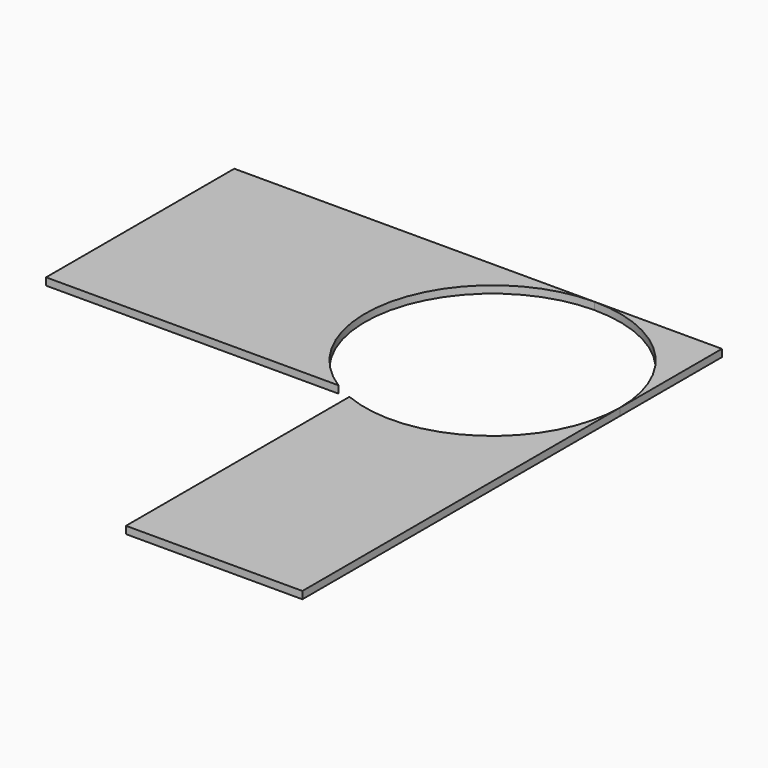
from build123d import *

# Parameters (mm, degrees)
F1_DEPTH = 19.05
F3_DEPTH = 25.4


with BuildPart() as f1:
    # F0 (on Top) → F1 (new body)
    with BuildSketch(Plane.XY):
        Polygon((0, -1358.9), (0, 0), (-1263.65, 0), (-1263.65, -609.6), (-1225.55, -609.6), (-1225.55, -38.1), (-38.1, -38.1), (-38.1, -1320.8), (-457.2, -1320.8), (-457.2, -1358.9), align=None)
        Polygon((-1225.55, -38.1), (-1225.55, -609.6), (-457.2, -609.6), (-457.2, -1320.8), (-38.1, -1320.8), (-38.1, -38.1), align=None)
    extrude(amount=F1_DEPTH)

    # F2 (on face) → F3 (cut)
    with BuildSketch(Plane.XY.offset(19.05)):
        with BuildLine():
            ThreePointArc((-457.2, -635), (-147.037995, -604.943007), (0, -330.2))
            ThreePointArc((0, -330.2), (-96.713341, -96.713341), (-330.2, 0))
            ThreePointArc((-330.2, 0), (-647.445898, -238.618998), (-506.176362, -609.6))
            Line((-506.176362, -609.6), (-457.2, -609.6))
            Line((-457.2, -609.6), (-457.2, -635))
        make_face()
    extrude(amount=-F3_DEPTH, mode=Mode.SUBTRACT)


solid = f1.part
